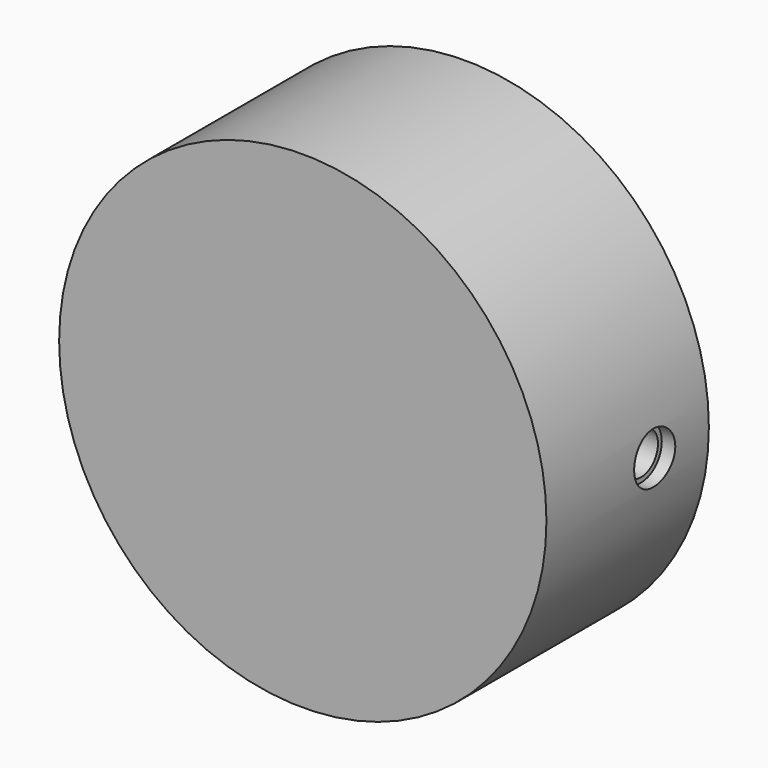
from build123d import *

# Parameters (mm, degrees)
F0_R           = 18
F1_DEPTH       = 15
F4_D           = 3.1
F4_DEPTH       = 5.4
F4_CBORE_D     = 3.8
F4_CBORE_DEPTH = 1
F4_TIP         = 0.9313339595


with BuildPart() as f1:
    # F0 (on Front) → F1 (new body)
    with BuildSketch(Plane.XZ):
        Circle(F0_R)
    extrude(amount=F1_DEPTH)

    # F4
    with Locations(Plane.YZ.offset(18)):
        with Locations((-5, 0)):
            CounterBoreHole(F4_D / 2, F4_CBORE_D / 2, F4_CBORE_DEPTH, depth=F4_DEPTH)
            with Locations((0, 0, -(F4_DEPTH + F4_TIP / 2))):  # 118° drill point
                Cone(0, F4_D / 2, F4_TIP, mode=Mode.SUBTRACT)


solid = f1.part
